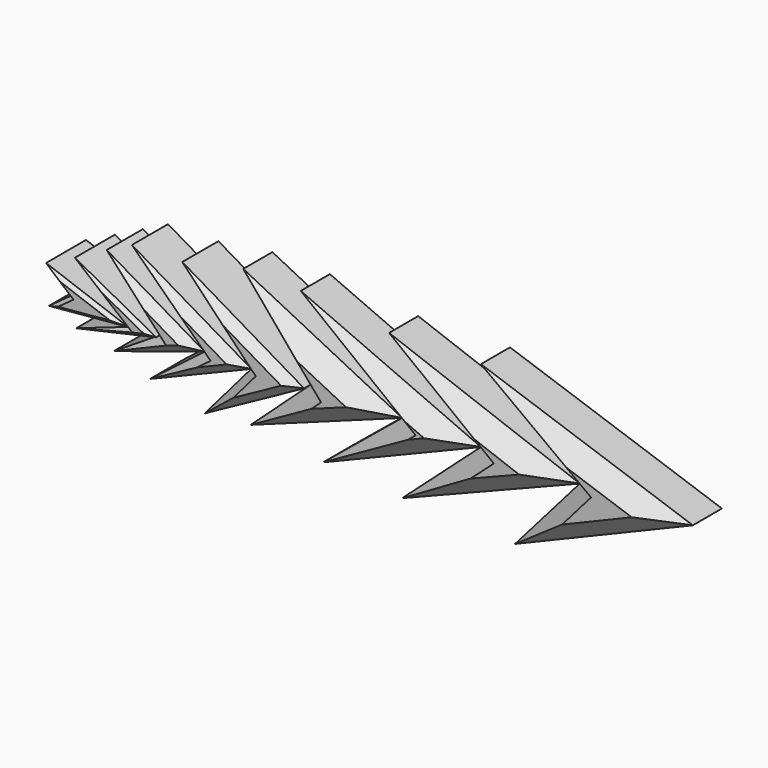
from build123d import *

# Parameters (mm, degrees)
F1_DEPTH   = 5
F2_SIZE2   = 1.524
F2_SIZE    = 1.524
F2_2_SIZE2 = 1.524
F2_2_SIZE  = 1.524
F2_3_SIZE2 = 1.524
F2_3_SIZE  = 1.524
F3_SIZE    = 0.635
F3_2_SIZE  = 0.635
F4_SIZE2   = 3.175
F4_SIZE    = 3.175
F4_2_SIZE2 = 3.175
F4_2_SIZE  = 3.175
F4_3_SIZE2 = 3.175
F4_3_SIZE  = 3.175
F4_4_SIZE2 = 3.175
F4_4_SIZE  = 3.175


with BuildPart() as f1:
    # F0 (on Front) → F1 (new body, symmetric)
    with BuildSketch(Plane.XZ):
        Polygon((-49.3986196816, 46.3301427662), (-64.7941529751, 51.8946684897), (-60.1737983525, 47.9626767337), (-64.2570853233, 44.9842847884), align=None)
    extrude(amount=F1_DEPTH, both=True)

    # F3
    f3_edges = [f1.edges().sort_by_distance(p)[0] for p in [
        (-56.827853, -5, 45.657214),
        (-57.096386, -5, 49.112406),
        (-62.483976, -5, 49.928673),
        (-62.215442, -5, 46.473481),
    ]]
    chamfer(f3_edges, length=F3_SIZE)


with BuildPart() as f1b:
    # F0 (on Front) → F1, piece 2 (new body, symmetric)
    with BuildSketch(Plane.XZ):
        Polygon((14.7852934897, 60.0292161107), (33.3453305066, 46.3301427662), (21.1929194629, 32.4101150036), (54.5567907393, 46.3301427662), align=None)
    extrude(amount=F1_DEPTH, both=True)

    # F4#3
    f4_3_edges = [f1b.edges().sort_by_distance(p)[0] for p in [
        (24.065312, -5, 53.179679),
        (27.269125, -5, 39.370129),
        (37.874855, -5, 39.370129),
        (34.671042, -5, 53.179679),
    ]]
    chamfer(f4_3_edges, length=F4_3_SIZE, length2=F4_3_SIZE2)


with BuildPart() as f1c:
    # F0 (on Front) → F1, piece 3 (new body, symmetric)
    with BuildSketch(Plane.XZ):
        Polygon((-2.4490260985, 59.5873072743), (14.7852934897, 46.3301427662), (0, 33.0729745328), (33.3453305066, 46.3301427662), align=None)
    extrude(amount=F1_DEPTH, both=True)

    # F4#4
    f4_4_edges = [f1c.edges().sort_by_distance(p)[0] for p in [
        (15.448152, -5, 52.958725),
        (6.168134, -5, 52.958725),
        (7.392647, -5, 39.701559),
        (16.672665, -5, 39.701559),
    ]]
    chamfer(f4_4_edges, length=F4_4_SIZE, length2=F4_4_SIZE2)


with BuildPart() as f1d:
    # F0 (on Front) → F1, piece 4 (new body, symmetric)
    with BuildSketch(Plane.XZ):
        Polygon((-19.0204828978, 61.1339770257), (0, 46.3301427662), (-14.8223834112, 34.1777391732), (14.7852934897, 46.3301427662), align=None)
    extrude(amount=F1_DEPTH, both=True)

    # F4#2
    f4_2_edges = [f1d.edges().sort_by_distance(p)[0] for p in [
        (-9.510241, -5, 53.73206),
        (-7.411192, -5, 40.253941),
        (-0.018545, -5, 40.253941),
        (-2.117595, -5, 53.73206),
    ]]
    chamfer(f4_2_edges, length=F4_2_SIZE, length2=F4_2_SIZE2)


with BuildPart() as f1e:
    # F0 (on Front) → F1, piece 5 (new body, symmetric)
    with BuildSketch(Plane.XZ):
        Polygon((-29.8187098791, 61.2595459289), (-17.0794726744, 46.3301427662), (-28.4036499583, 35.9476091376), (0, 46.3301427662), align=None)
    extrude(amount=F1_DEPTH, both=True)

    # F4
    f4_edges = [f1e.edges().sort_by_distance(p)[0] for p in [
        (-14.201825, -5, 41.138876),
        (-14.909355, -5, 53.794844),
        (-23.449091, -5, 53.794844),
        (-22.741561, -5, 41.138876),
    ]]
    chamfer(f4_edges, length=F4_SIZE, length2=F4_SIZE2)


with BuildPart() as f1f:
    # F0 (on Front) → F1, piece 6 (new body, symmetric)
    with BuildSketch(Plane.XZ):
        Polygon((-39.9393104017, 59.7775876522), (-26.9854573235, 46.3301427662), (-35.7351712883, 36.1293107271), (-17.0794726744, 46.3301427662), align=None)
    extrude(amount=F1_DEPTH, both=True)

    # F2#2
    f2_2_edges = [f1f.edges().sort_by_distance(p)[0] for p in [
        (-26.407322, -5, 41.229727),
        (-28.509392, -5, 53.053865),
        (-33.462384, -5, 53.053865),
        (-31.360314, -5, 41.229727),
    ]]
    chamfer(f2_2_edges, length=F2_2_SIZE, length2=F2_2_SIZE2)


with BuildPart() as f1g:
    # F0 (on Front) → F1, piece 7 (new body, symmetric)
    with BuildSketch(Plane.XZ):
        Polygon((-49.3986196816, 59.5148280263), (-35.7351712883, 46.3301427662), (-45.9827594459, 38.4941399097), (-26.9854573235, 46.3301427662), align=None)
    extrude(amount=F1_DEPTH, both=True)

    # F2#3
    f2_3_edges = [f1g.edges().sort_by_distance(p)[0] for p in [
        (-36.484108, -5, 42.412141),
        (-38.192039, -5, 52.922485),
        (-42.566895, -5, 52.922485),
        (-40.858965, -5, 42.412141),
    ]]
    chamfer(f2_3_edges, length=F2_3_SIZE, length2=F2_3_SIZE2)


with BuildPart() as f1h:
    # F0 (on Front) → F1, piece 8 (new body, symmetric)
    with BuildSketch(Plane.XZ):
        Polygon((-54.1282743216, 57.150002569), (-44.1273974836, 46.3301427662), (-52.8144836426, 40.8589653671), (-35.7351712883, 46.3301427662), align=None)
    extrude(amount=F1_DEPTH, both=True)

    # F2
    f2_edges = [f1h.edges().sort_by_distance(p)[0] for p in [
        (-44.931723, -5, 51.740073),
        (-49.127836, -5, 51.740073),
        (-48.470941, -5, 43.594554),
        (-44.274827, -5, 43.594554),
    ]]
    chamfer(f2_edges, length=F2_SIZE, length2=F2_SIZE2)


with BuildPart() as f1i:
    # F0 (on Front) → F1, piece 9 (new body, symmetric)
    with BuildSketch(Plane.XZ):
        Polygon((-59.3834482133, 54.5224137604), (-49.3986196816, 46.3301427662), (-59.1206923127, 42.9610349238), (-44.1273974836, 46.3301427662), align=None)
    extrude(amount=F1_DEPTH, both=True)

    # F3#2
    f3_2_edges = [f1i.edges().sort_by_distance(p)[0] for p in [
        (-51.755423, -5, 50.426278),
        (-54.391034, -5, 50.426278),
        (-51.624045, -5, 44.645589),
        (-54.259656, -5, 44.645589),
    ]]
    chamfer(f3_2_edges, length=F3_2_SIZE)


solid = Compound([f1.part, f1b.part, f1c.part, f1d.part, f1e.part, f1f.part, f1g.part, f1h.part, f1i.part])
